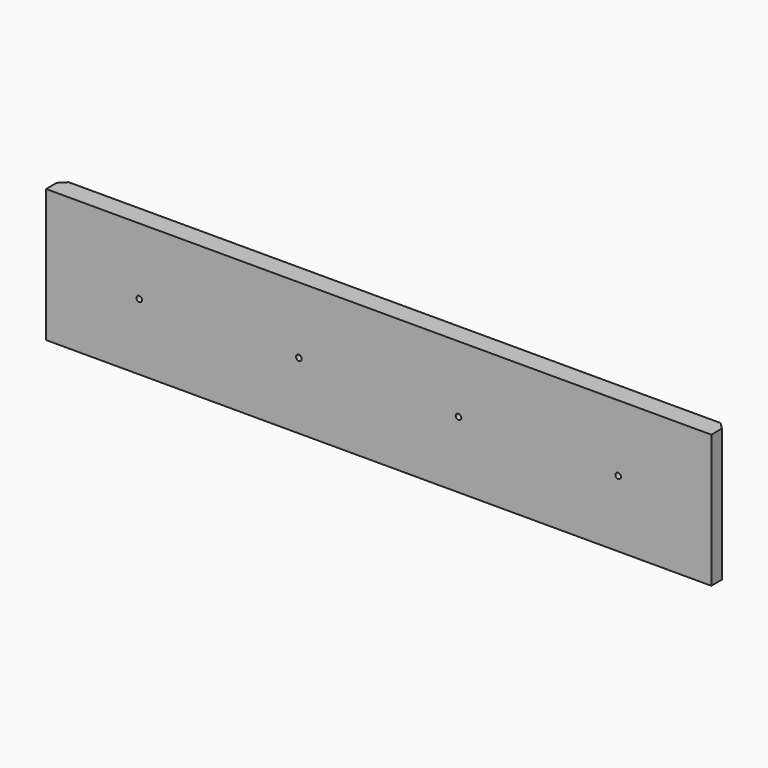
from build123d import *

# Parameters (mm, degrees)
F0_W     = 500
F0_H     = 100
F1_DEPTH = 15
F3_D     = 4.2
F4_SIZE  = 5


with BuildPart() as f1:
    # F0 (on Front) → F1 (new body)
    with BuildSketch(Plane.XZ):
        Rectangle(F0_W, F0_H)
    extrude(amount=F1_DEPTH)

    # F3 (through all)
    with Locations(Plane.XZ.offset(15)):
        with Locations((-180, 0), (-60, 0), (60, 0), (180, 0)):
            Hole(F3_D / 2)

    # F4
    f4_edges = [f1.edges().sort_by_distance(p)[0] for p in [
        (-250, 0, 0),
        (250, 0, 0),
    ]]
    chamfer(f4_edges, length=F4_SIZE)


solid = f1.part
